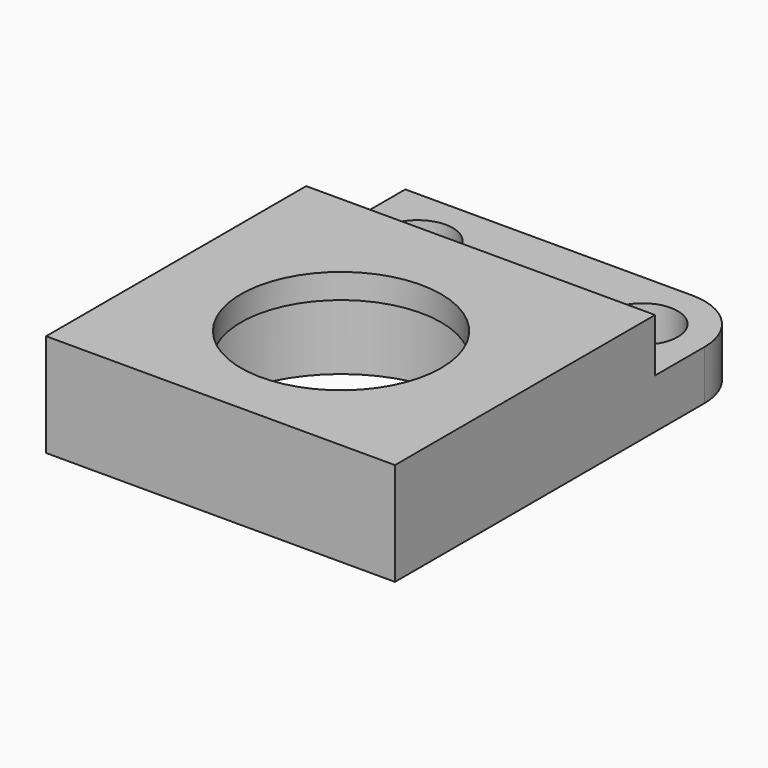
from build123d import *

# Parameters (mm, degrees)
F0_W     = 22.349994
F0_H     = 28.762516
F0_R     = 8
F0_R_2   = 2.2479
F1_DEPTH = 3.175
F2_W     = 22.349994
F2_H     = 20.825016
F2_R     = 8
F3_DEPTH = 1.82499
F4_W     = 22.349994
F4_H     = 20.825016
F4_R     = 8
F4_R_2   = 6.412497
F5_DEPTH = 1.5875
F6_R     = 3.96875


with BuildPart() as f1:
    # F0 (on Top) → F1 (new body)
    with BuildSketch(Plane.XY):
        with Locations((0, 14.381258)):
            Rectangle(F0_W, F0_H)
        with Locations((0, 9.650006)):
            Circle(F0_R, mode=Mode.SUBTRACT)
        with Locations((-7.206247, 24.793766)):
            Circle(F0_R_2, mode=Mode.SUBTRACT)
        with Locations((7.206247, 24.793766)):
            Circle(F0_R_2, mode=Mode.SUBTRACT)
    extrude(amount=F1_DEPTH)

    # F2 (on face) → F3 (join)
    with BuildSketch(Plane.XY.offset(3.175)):
        with Locations((0, 10.412508)):
            Rectangle(F2_W, F2_H)
        with Locations((0, 9.650006)):
            Circle(F2_R, mode=Mode.SUBTRACT)
    extrude(amount=F3_DEPTH)

    # F4 (on face) → F5 (join)
    with BuildSketch(Plane.XY.offset(4.99999)):
        with Locations((0, 10.412508)):
            Rectangle(F4_W, F4_H)
        with Locations((0, 9.650006)):
            Circle(F4_R, mode=Mode.SUBTRACT)
        with Locations((0, 9.650006)):
            Circle(F4_R)
        with Locations((0, 9.650006)):
            Circle(F4_R_2, mode=Mode.SUBTRACT)
    extrude(amount=F5_DEPTH)

    # F6
    f6_edges = [f1.edges().sort_by_distance(p)[0] for p in [
        (11.174997, 28.762516, 1.5875),
    ]]
    fillet(f6_edges, radius=F6_R)


solid = f1.part
